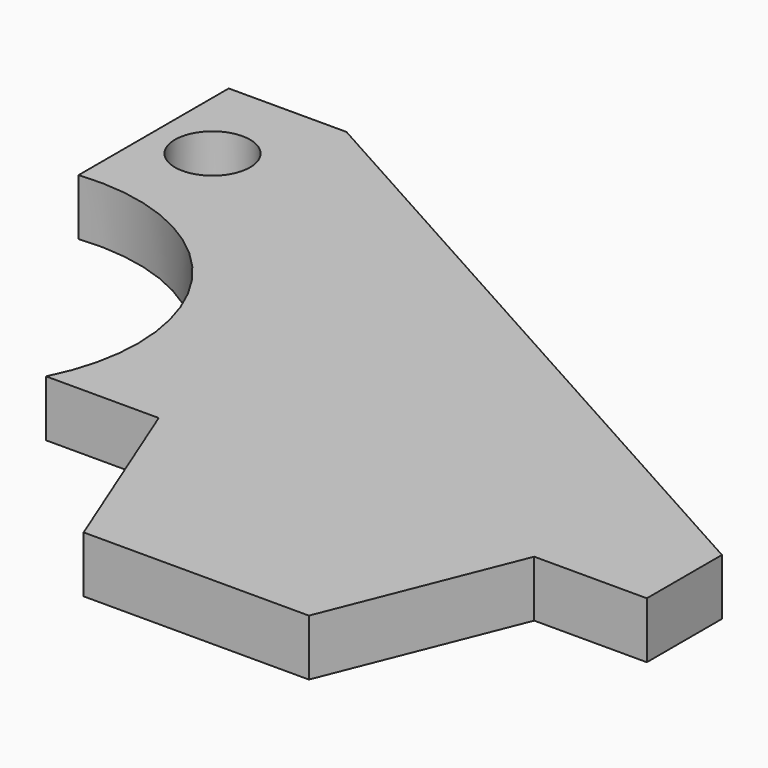
from build123d import *

# Parameters (mm, degrees)
F0_R     = 1
F0_W     = 3
F0_H     = 5
F1_DEPTH = 1.5


with BuildPart() as f1:
    # F0 (on Top) → F1 (new body)
    with BuildSketch(Plane.XY):
        with BuildLine():
            Line((-63.903925, 10.221665), (-60.903925, 10.221665))
            Line((-60.903925, 10.221665), (-58.903925, 10.221665))
            Line((-58.903925, 10.221665), (-58.903925, 18.832776))
            Line((-58.903925, 18.832776), (-65.903925, 22.721665))
            Line((-65.903925, 22.721665), (-69.039136, 22.721665))
            Line((-69.039136, 22.721665), (-69.039136, 17.721665))
            ThreePointArc((-69.039136, 17.721665), (-64.242291, 15.498014), (-63.903925, 10.221665))
        make_face()
        with Locations((-67.47153, 20.221665)):
            Circle(F0_R, mode=Mode.SUBTRACT)
        Polygon((-58.903925, 18.832776), (-58.903925, 10.221665), (-55.903925, 10.221665), (-50.903925, 10.221665), (-47.903925, 10.221665), (-47.903925, 12.721665), align=None)
        with Locations((-57.403925, 7.721665)):
            Rectangle(F0_W, F0_H)
        Polygon((-60.903925, 10.221665), (-58.903925, 5.221665), (-58.903925, 10.221665), align=None)
        Polygon((-55.903925, 10.221665), (-55.903925, 5.221665), (-52.903925, 5.221665), (-50.903925, 10.221665), align=None)
    extrude(amount=F1_DEPTH)


solid = f1.part
